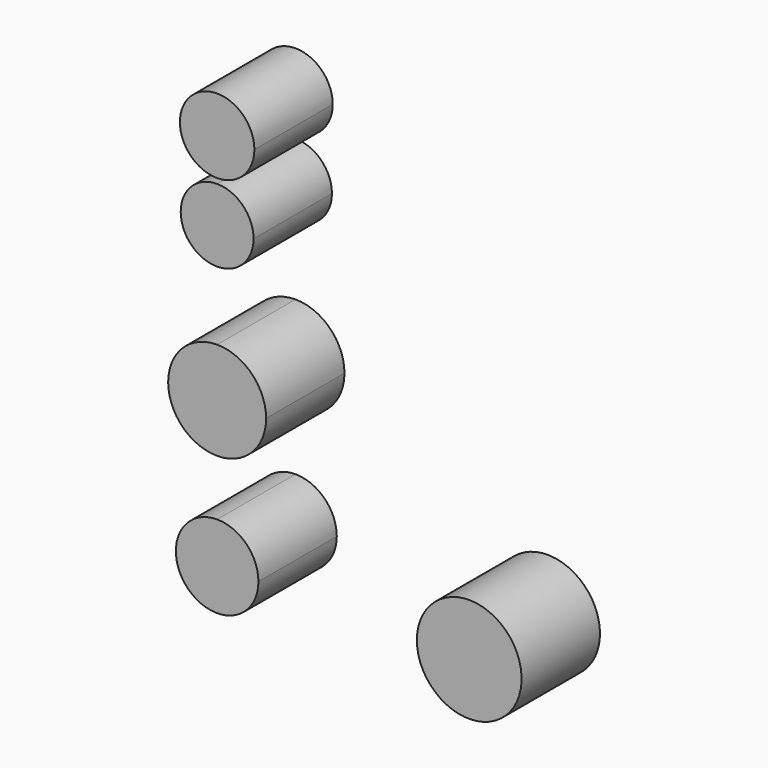
from build123d import *

# Parameters (mm, degrees)
F1_DEPTH = 25.4


with BuildPart() as f1:
    # F0 (on Front) → F1 (new body)
    with BuildSketch(Plane.XZ):
        with BuildLine():
            ThreePointArc((56.474135, -48.573449), (42.898979, -34.998294), (29.323824, -48.573449))
            ThreePointArc((29.323824, -48.573449), (42.898979, -62.148605), (56.474135, -48.573449))
        make_face()
        with BuildLine():
            ThreePointArc((-11.764326, -48.573449), (-14.900207, -41.002763), (-22.470893, -37.866882))
            Line((-22.470893, -37.866882), (-22.470893, -48.573449))
            Line((-22.470893, -48.573449), (-11.764326, -48.573449))
        make_face()
        with BuildLine():
            Line((-22.470893, -48.573449), (-22.470893, -37.866882))
            ThreePointArc((-22.470893, -37.866882), (-30.04158, -56.144136), (-11.764326, -48.573449))
            Line((-11.764326, -48.573449), (-22.470893, -48.573449))
        make_face()
        with BuildLine():
            ThreePointArc((-9.772251, -10.668001), (-13.491597, -1.688705), (-22.470893, 2.030641))
            Line((-22.470893, 2.030641), (-22.470893, -23.366644))
            ThreePointArc((-22.470893, -23.366644), (-13.491597, -19.647297), (-9.772251, -10.668001))
        make_face()
        with BuildLine():
            Line((-22.470893, -23.366644), (-22.470893, 2.030641))
            ThreePointArc((-22.470893, 2.030641), (-35.169536, -10.668001), (-22.470893, -23.366644))
        make_face()
        with BuildLine():
            ThreePointArc((-13.024652, 29.280255), (-15.791392, 35.959756), (-22.470893, 38.726496))
            Line((-22.470893, 38.726496), (-22.470893, 19.834013))
            ThreePointArc((-22.470893, 19.834013), (-15.791392, 22.600753), (-13.024652, 29.280255))
        make_face()
        with BuildLine():
            Line((-22.470893, 19.834013), (-22.470893, 38.726496))
            ThreePointArc((-22.470893, 38.726496), (-31.917135, 29.280255), (-22.470893, 19.834013))
        make_face()
        with BuildLine():
            ThreePointArc((-12.814287, 49.708344), (-29.299145, 56.536596), (-22.470893, 40.051738))
            ThreePointArc((-22.470893, 40.051738), (-15.642642, 42.880092), (-12.814287, 49.708344))
        make_face()
    extrude(amount=F1_DEPTH)


solid = f1.part
